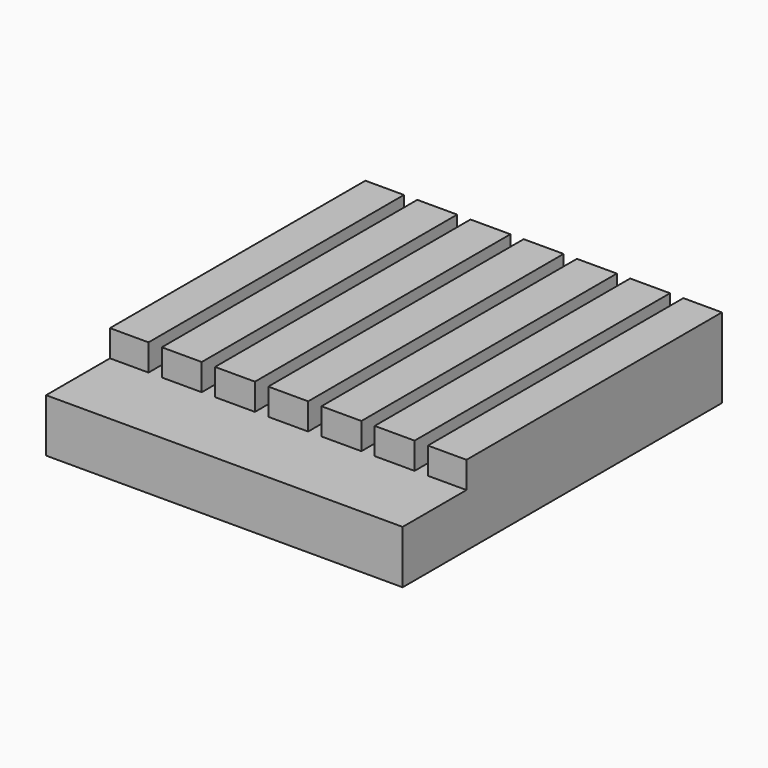
from build123d import *

# Parameters (mm, degrees)
F0_W     = 85.09
F0_H     = 95.25
F1_DEPTH = 19.05
F2_W     = 3.175
F2_H     = 101.6
F3_DEPTH = 6.35
F4_W     = 19.05
F4_H     = 6.35
F5_DEPTH = 85.091


with BuildPart() as f1:
    # F0 (on Top) → F1 (new body)
    with BuildSketch(Plane.XY):
        Rectangle(F0_W, F0_H)
    extrude(amount=F1_DEPTH)

    # F2 (on face) → F3 (cut)
    with BuildSketch(Plane.XY.offset(19.05)):
        with Locations((-31.75, 0)):
            Rectangle(F2_W, F2_H)
        with Locations((-19.05, 0)):
            Rectangle(F2_W, F2_H)
        with Locations((-6.35, 0)):
            Rectangle(F2_W, F2_H)
        with Locations((6.35, 0)):
            Rectangle(F2_W, F2_H)
        with Locations((19.05, 0)):
            Rectangle(F2_W, F2_H)
        with Locations((31.75, 0)):
            Rectangle(F2_W, F2_H)
    extrude(amount=-F3_DEPTH, mode=Mode.SUBTRACT)

    # F4 (on face) → F5 (cut, through all)
    with BuildSketch(Plane.YZ.offset(42.545)):
        with Locations((-38.1, 15.875)):
            Rectangle(F4_W, F4_H)
    extrude(amount=-F5_DEPTH, mode=Mode.SUBTRACT)


solid = f1.part
